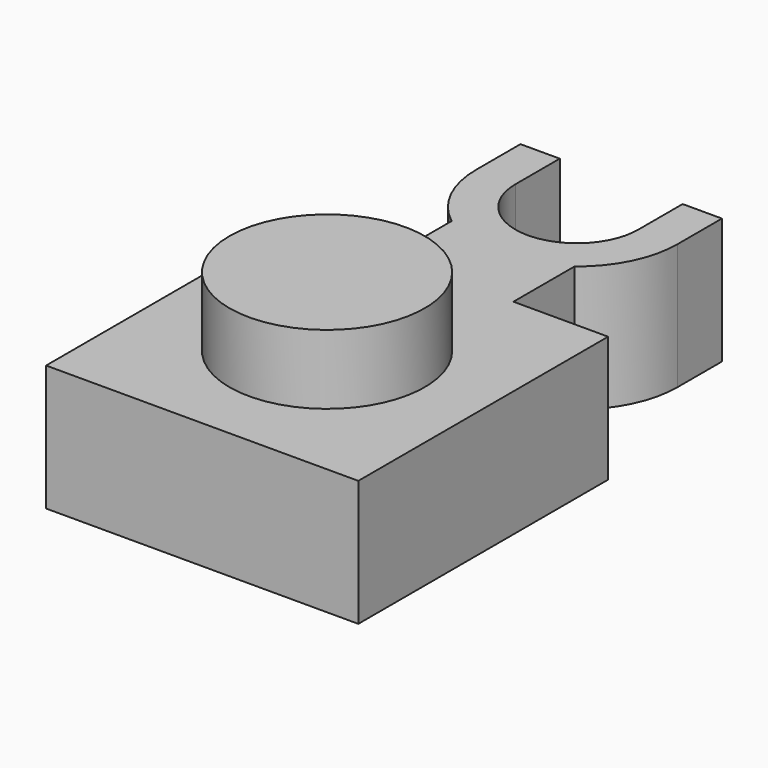
from build123d import *

# Parameters (mm, degrees)
F1_DEPTH = 3.175
F3_DEPTH = 1.7526
F4_W     = 4.7244
F4_H     = 4.7244
F5_DEPTH = 1.5748


with BuildPart() as f1:
    # F0 (on Top) → F1 (new body)
    with BuildSketch(Plane.XY):
        with BuildLine():
            Line((0, 7.874), (0, 0))
            Line((0, 0), (7.874, 0))
            Line((7.874, 0), (7.874, 7.874))
            Line((7.874, 7.874), (5.4864, 7.874))
            Line((5.4864, 7.874), (5.4864, 9.7983))
            ThreePointArc((5.4864, 9.7983), (6.215934, 10.689366), (6.477, 11.811))
            Line((6.477, 11.811), (6.477, 13.208))
            Line((6.477, 13.208), (5.4864, 13.208))
            Line((5.4864, 13.208), (5.4864, 11.811))
            ThreePointArc((5.4864, 11.811), (3.937, 10.2616), (2.3876, 11.811))
            Line((2.3876, 11.811), (2.3876, 13.208))
            Line((2.3876, 13.208), (1.397, 13.208))
            Line((1.397, 13.208), (1.397, 11.811))
            ThreePointArc((1.397, 11.811), (1.658066, 10.689366), (2.3876, 9.7983))
            Line((2.3876, 9.7983), (2.3876, 7.874))
            Line((2.3876, 7.874), (0, 7.874))
        make_face()
    extrude(amount=F1_DEPTH)

    # F2 (on face) → F3 (join)
    with BuildSketch(Plane.XY.offset(3.175)):
        with BuildLine():
            ThreePointArc((6.4008, 3.937), (3.937, 6.4008), (1.4732, 3.937))
            Line((1.4732, 3.937), (6.4008, 3.937))
        make_face()
        with BuildLine():
            Line((6.4008, 3.937), (1.4732, 3.937))
            ThreePointArc((1.4732, 3.937), (3.937, 1.4732), (6.4008, 3.937))
        make_face()
    extrude(amount=F3_DEPTH)

    # F4 (on face) → F5 (cut)
    with BuildSketch(Plane(origin=(0, 0, 0), x_dir=(1, 0, 0), z_dir=(0, 0, -1))):
        with Locations((3.937, -3.937)):
            Rectangle(F4_W, F4_H)
    extrude(amount=-F5_DEPTH, mode=Mode.SUBTRACT)


solid = f1.part
